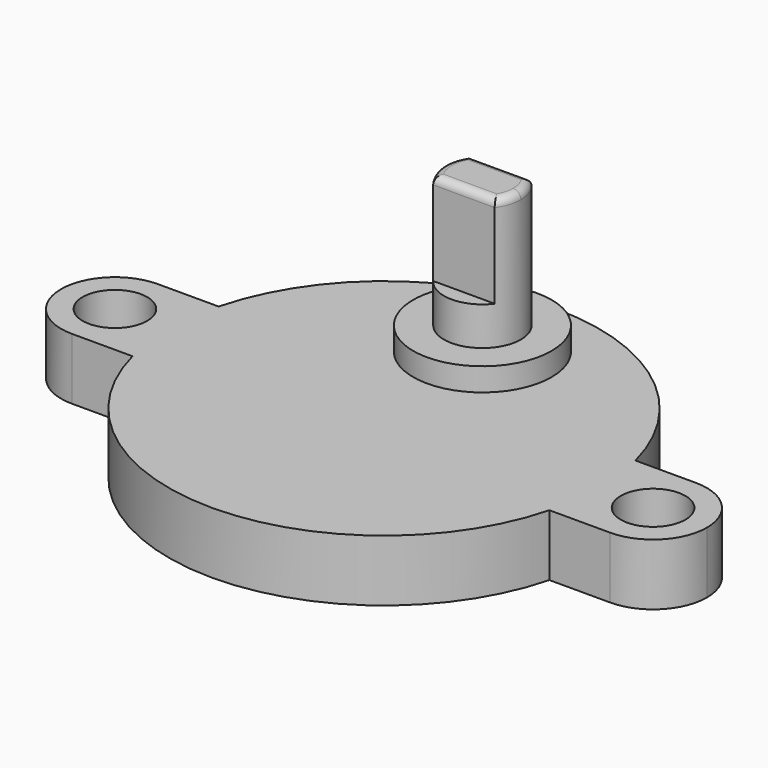
from build123d import *

# Parameters (mm, degrees)
F1_DEPTH = 10
F2_DEPTH = 4
F0_R     = 4.5
F3_DEPTH = 1.5
F4_R     = 0.5
F0_R_2   = 2.1
F5_DEPTH = 4


with BuildPart() as f1:
    # F0 (on Top) → F1 (new body)
    with BuildSketch(Plane.XY):
        with BuildLine():
            ThreePointArc((2, 6.5), (2.3717082451, 7.209430585), (2.5, 8))
            ThreePointArc((2.5, 8), (2.3717082451, 8.790569415), (2, 9.5))
            Line((2, 9.5), (-2, 9.5))
            ThreePointArc((-2, 9.5), (-2.5, 8), (-2, 6.5))
            Line((-2, 6.5), (2, 6.5))
        make_face()
    extrude(amount=F1_DEPTH)

    # F0 (on Top) → F2 (join)
    with BuildSketch(Plane.XY):
        with BuildLine():
            ThreePointArc((-2, 6.5), (0, 5.5), (2, 6.5))
            Line((2, 6.5), (-2, 6.5))
        make_face()
        with BuildLine():
            Line((-2, 9.5), (2, 9.5))
            ThreePointArc((2, 9.5), (0, 10.5), (-2, 9.5))
        make_face()
    extrude(amount=F2_DEPTH)

    # F0 (on Top) → F3 (join)
    with BuildSketch(Plane.XY):
        with Locations((0, 8)):
            Circle(F0_R)
        with BuildLine():
            ThreePointArc((2, 9.5), (2.3717082451, 8.790569415), (2.5, 8))
            ThreePointArc((2.5, 8), (2.3717082451, 7.209430585), (2, 6.5))
            ThreePointArc((2, 6.5), (0, 5.5), (-2, 6.5))
            ThreePointArc((-2, 6.5), (-2.5, 8), (-2, 9.5))
            ThreePointArc((-2, 9.5), (0, 10.5), (2, 9.5))
        make_face(mode=Mode.SUBTRACT)
    extrude(amount=F3_DEPTH)

    # F4
    f4_edges = [f1.edges().sort_by_distance(p)[0] for p in [
        (0, 9.5, 10),
        (0, 6.5, 10),
        (2.5, 8, 10),
        (-2.5, 8, 10),
    ]]
    fillet(f4_edges, radius=F4_R)

    # F0 (on Top) → F5 (join)
    with BuildSketch(Plane.XY):
        with BuildLine():
            ThreePointArc((13.5554417117, -3.5), (13.8884157477, -1.7640600948), (14, 0))
            ThreePointArc((14, 0), (13.8884157477, 1.7640600948), (13.5554417117, 3.5))
            ThreePointArc((13.5554417117, 3.5), (0, 14), (-13.5554417117, 3.5))
            ThreePointArc((-13.5554417117, 3.5), (-13.8884157477, 1.7640600948), (-14, 0))
            ThreePointArc((-14, 0), (-13.8884157477, -1.7640600948), (-13.5554417117, -3.5))
            ThreePointArc((-13.5554417117, -3.5), (0, -14), (13.5554417117, -3.5))
        make_face()
        with Locations((0, 8)):
            Circle(F0_R, mode=Mode.SUBTRACT)
        with BuildLine():
            ThreePointArc((-17.5, -3.5), (-15.0251262658, -2.4748737342), (-14, 0))
            ThreePointArc((-14, 0), (-15.0251262658, 2.4748737342), (-17.5, 3.5))
            ThreePointArc((-17.5, 3.5), (-21, 0), (-17.5, -3.5))
        make_face()
        with Locations((-17.5, 0)):
            Circle(F0_R_2, mode=Mode.SUBTRACT)
        with BuildLine():
            ThreePointArc((-14, 0), (-13.8884157477, 1.7640600948), (-13.5554417117, 3.5))
            Line((-13.5554417117, 3.5), (-17.5, 3.5))
            ThreePointArc((-17.5, 3.5), (-15.0251262658, 2.4748737342), (-14, 0))
        make_face()
        with BuildLine():
            Line((-17.5, -3.5), (-13.5554417117, -3.5))
            ThreePointArc((-13.5554417117, -3.5), (-13.8884157477, -1.7640600948), (-14, 0))
            ThreePointArc((-14, 0), (-15.0251262658, -2.4748737342), (-17.5, -3.5))
        make_face()
        with BuildLine():
            ThreePointArc((17.5, 3.5), (15.0251262658, 2.4748737342), (14, 0))
            ThreePointArc((14, 0), (15.0251262658, -2.4748737342), (17.5, -3.5))
            ThreePointArc((17.5, -3.5), (19.9748737342, -2.4748737342), (21, 0))
            ThreePointArc((21, 0), (19.9748737342, 2.4748737342), (17.5, 3.5))
        make_face()
        with Locations((17.5, 0)):
            Circle(F0_R_2, mode=Mode.SUBTRACT)
        with BuildLine():
            ThreePointArc((13.5554417117, 3.5), (13.8884157477, 1.7640600948), (14, 0))
            ThreePointArc((14, 0), (15.0251262658, 2.4748737342), (17.5, 3.5))
            Line((17.5, 3.5), (13.5554417117, 3.5))
        make_face()
        with BuildLine():
            ThreePointArc((17.5, -3.5), (15.0251262658, -2.4748737342), (14, 0))
            ThreePointArc((14, 0), (13.8884157477, -1.7640600948), (13.5554417117, -3.5))
            Line((13.5554417117, -3.5), (17.5, -3.5))
        make_face()
        with Locations((0, 8)):
            Circle(F0_R)
        with BuildLine():
            ThreePointArc((2, 9.5), (2.3717082451, 8.790569415), (2.5, 8))
            ThreePointArc((2.5, 8), (2.3717082451, 7.209430585), (2, 6.5))
            ThreePointArc((2, 6.5), (0, 5.5), (-2, 6.5))
            ThreePointArc((-2, 6.5), (-2.5, 8), (-2, 9.5))
            ThreePointArc((-2, 9.5), (0, 10.5), (2, 9.5))
        make_face(mode=Mode.SUBTRACT)
        with BuildLine():
            ThreePointArc((2, 6.5), (2.3717082451, 7.209430585), (2.5, 8))
            ThreePointArc((2.5, 8), (2.3717082451, 8.790569415), (2, 9.5))
            Line((2, 9.5), (-2, 9.5))
            ThreePointArc((-2, 9.5), (-2.5, 8), (-2, 6.5))
            Line((-2, 6.5), (2, 6.5))
        make_face()
        with BuildLine():
            ThreePointArc((-2, 6.5), (0, 5.5), (2, 6.5))
            Line((2, 6.5), (-2, 6.5))
        make_face()
        with BuildLine():
            Line((-2, 9.5), (2, 9.5))
            ThreePointArc((2, 9.5), (0, 10.5), (-2, 9.5))
        make_face()
    extrude(amount=-F5_DEPTH)


solid = f1.part
